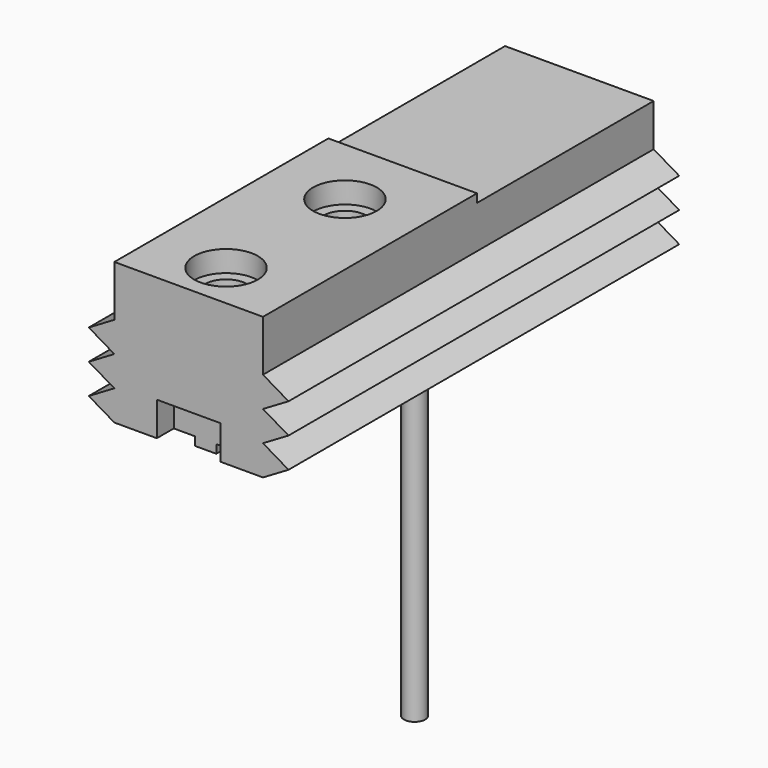
from build123d import *

# Parameters (mm, degrees)
F0_W      = 35
F0_H      = 63
F1_DEPTH  = 35.3
F2_W      = 15
F2_H      = 2
F3_DEPTH  = 63.001
F4_DEPTH  = 63
F5_R      = 5
F6_DEPTH  = 23
F5_R_2    = 7.5
F7_DEPTH  = 5
F9_DEPTH  = 5
F11_DEPTH = 52
F12_R     = 2.5
F13_DEPTH = 80.1


with BuildPart() as f1:
    # F0 (on Top) → F1 (new body)
    with BuildSketch(Plane.XY):
        with Locations((-0.486111, -31.5)):
            Rectangle(F0_W, F0_H)
    extrude(amount=-F1_DEPTH)

    # F2 (on face) → F3 (cut, through all)
    with BuildSketch(Plane.XZ.offset(63)):
        with Locations((9.513889, -34.3)):
            Rectangle(F2_W, F2_H)
        with Locations((-10.486111, -34.3)):
            Rectangle(F2_W, F2_H)
    extrude(amount=-F3_DEPTH, mode=Mode.SUBTRACT)

    # F2 (on face) → F4 (join)
    with BuildSketch(Plane.XZ.offset(63)):
        Polygon((-17.986111, -19.1), (-17.986111, -12), (-24.006156, -15.55), align=None)
        Polygon((-17.986111, -26.2), (-17.986111, -19.1), (-24.006156, -22.65), align=None)
        Polygon((-17.986111, -33.3), (-17.986111, -26.2), (-24.006156, -29.75), align=None)
        Polygon((23.033934, -29.75), (17.013889, -26.2), (17.013889, -33.3), align=None)
        Polygon((23.033934, -15.55), (17.013889, -12), (17.013889, -19.1), align=None)
        Polygon((23.033934, -22.65), (17.013889, -19.1), (17.013889, -26.2), align=None)
    extrude(amount=-F4_DEPTH)

    # F5 (on face) → F6 (cut)
    with BuildSketch(Plane.XY):
        with Locations((-0.486111, -17)):
            Circle(F5_R)
        with Locations((-0.486111, -52)):
            Circle(F5_R)
    extrude(amount=-F6_DEPTH, mode=Mode.SUBTRACT)

    # F5 (on face) → F7 (cut)
    with BuildSketch(Plane.XY):
        with Locations((-0.486111, -17)):
            Circle(F5_R_2)
        with Locations((-0.486111, -17)):
            Circle(F5_R, mode=Mode.SUBTRACT)
        with Locations((-0.486111, -52)):
            Circle(F5_R_2)
        with Locations((-0.486111, -52)):
            Circle(F5_R, mode=Mode.SUBTRACT)
    extrude(amount=-F7_DEPTH, mode=Mode.SUBTRACT)

    # F8 (on face) → F9 (cut)
    with BuildSketch(Plane.XZ.offset(63)):
        Polygon((-0.486111, -25.3), (-7.986111, -25.3), (-7.986111, -35.504304), (7.013889, -35.504304), (7.013889, -25.3), align=None)
    extrude(amount=-F9_DEPTH, mode=Mode.SUBTRACT)

    # F10 (on face) → F11 (join)
    with BuildSketch(Plane(origin=(0, 0, 0), x_dir=(-1, 0, 0), z_dir=(0, 1, 0))):
        Polygon((17.986111, -2), (-17.013889, -2), (-17.013889, -12), (-23.033934, -15.55), (-17.013889, -19.1), (-23.033934, -22.65), (-17.013889, -26.2), (-23.033934, -29.75), (-17.013889, -33.3), (-2.013889, -33.3), (-2.013889, -35.3), (2.986111, -35.3), (2.986111, -33.3), (17.986111, -33.3), (24.006156, -29.75), (17.986111, -26.2), (24.006156, -22.65), (17.986111, -19.1), (24.006156, -15.55), (17.986111, -12), align=None)
        Polygon((17.986111, -2), (-17.013889, -2), (-17.013889, -12), (-23.033934, -15.55), (-17.013889, -19.1), (-23.033934, -22.65), (-17.013889, -26.2), (-23.033934, -29.75), (-17.013889, -33.3), (-2.013889, -33.3), (-2.013889, -35.3), (2.986111, -35.3), (2.986111, -33.3), (17.986111, -33.3), (24.006156, -29.75), (17.986111, -26.2), (24.006156, -22.65), (17.986111, -19.1), (24.006156, -15.55), (17.986111, -12), align=None)
    extrude(amount=F11_DEPTH)

    # F12 (on face) → F13 (join)
    with BuildSketch(Plane(origin=(0, 0, -35.3), x_dir=(1, 0, 0), z_dir=(0, 0, -1))):
        with Locations((-0.486111, -3.5)):
            Circle(F12_R)
    extrude(amount=F13_DEPTH)


solid = f1.part
